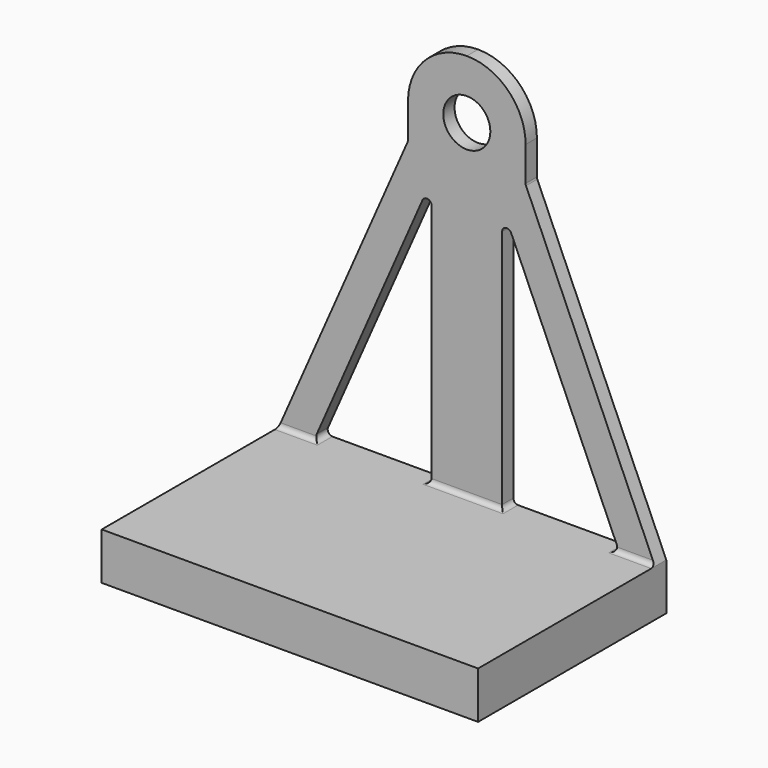
from build123d import *

# Parameters (mm, degrees)
F0_R     = 10
F1_DEPTH = 6
F2_DEPTH = 100
F3_R     = 2


with BuildPart() as f1:
    # F0 (on Front) → F1 (new body)
    with BuildSketch(Plane.XZ):
        Polygon((-80, 20), (-80, 0), (0, 0), (80, 0), (80, 20), (61.93496, 20), (17, 20), (-17, 20), (-61.93496, 20), align=None)
        with BuildLine():
            Line((-25.16937, 144.615068), (-80, 20))
            Line((-80, 20), (-61.93496, 20))
            ThreePointArc((-61.93496, 20), (-63.609916, 20.907058), (-63.76559, 22.805477))
            Line((-63.76559, 22.805477), (-18.83063, 124.930386))
            ThreePointArc((-18.83063, 124.930386), (-16.588454, 126.082109), (-15, 124.124909))
            Line((-15, 124.124909), (-15, 22))
            ThreePointArc((-15, 22), (-15.585786, 20.585786), (-17, 20))
            Line((-17, 20), (17, 20))
            ThreePointArc((17, 20), (15.585786, 20.585786), (15, 22))
            Line((15, 22), (15, 124.124909))
            ThreePointArc((15, 124.124909), (16.588454, 126.082109), (18.83063, 124.930386))
            Line((18.83063, 124.930386), (63.76559, 22.805477))
            ThreePointArc((63.76559, 22.805477), (63.609916, 20.907058), (61.93496, 20))
            Line((61.93496, 20), (80, 20))
            Line((80, 20), (25.16937, 144.615068))
            ThreePointArc((25.16937, 144.615068), (25.0428, 145.009), (25, 145.420546))
            Line((25, 145.420546), (25, 160))
            ThreePointArc((25, 160), (17.67767, 177.67767), (0, 185))
            ThreePointArc((0, 185), (-17.67767, 177.67767), (-25, 160))
            Line((-25, 160), (-25, 145.420546))
            ThreePointArc((-25, 145.420546), (-25.0428, 145.009), (-25.16937, 144.615068))
        make_face()
        with Locations((0, 160)):
            Circle(F0_R, mode=Mode.SUBTRACT)
    extrude(amount=F1_DEPTH)

    # F0 (on Front) → F2 (join)
    with BuildSketch(Plane.XZ):
        Polygon((-80, 20), (-80, 0), (0, 0), (80, 0), (80, 20), (61.93496, 20), (17, 20), (-17, 20), (-61.93496, 20), align=None)
    extrude(amount=F2_DEPTH)

    # F3
    f3_edges = [f1.edges().sort_by_distance(p)[0] for p in [
        (70.96748, -6, 20),
        (0, -6, 20),
        (-70.96748, -6, 20),
    ]]
    fillet(f3_edges, radius=F3_R)


solid = f1.part
